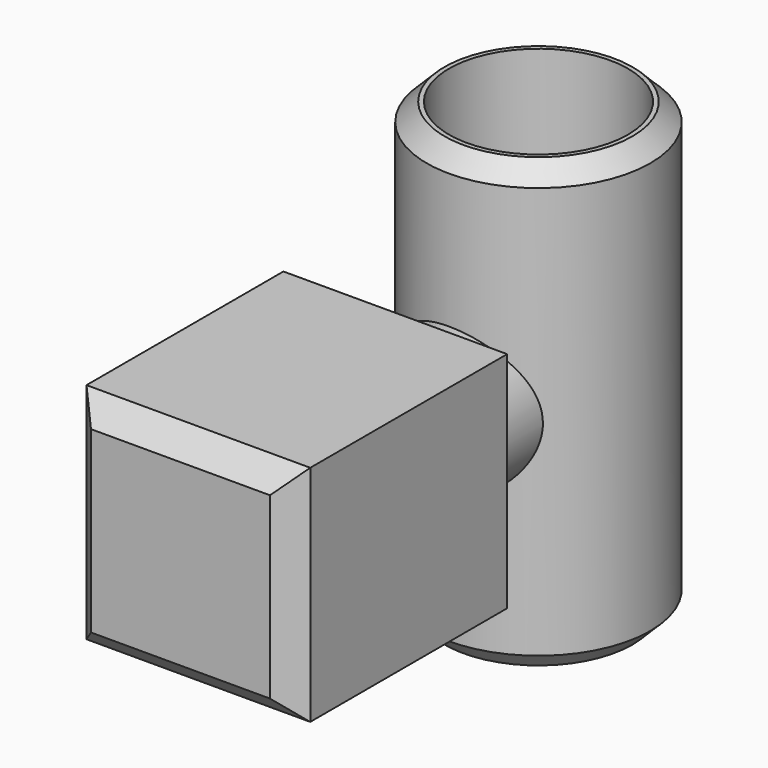
from build123d import *

# Parameters (mm, degrees)
F0_R     = 12.5
F1_DEPTH = 50
F2_SIZE  = 2
F3_R     = 8.107288
F4_DEPTH = 20
F5_W     = 25
F5_H     = 25
F6_DEPTH = 30
F7_SIZE  = 2.5
F8_R     = 10
F9_DEPTH = 50.001


with BuildPart() as f1:
    # F0 (on Top) → F1 (new body)
    with BuildSketch(Plane.XY):
        Circle(F0_R)
    extrude(amount=F1_DEPTH)

    # F2
    f2_edges = [f1.edges().sort_by_distance(p)[0] for p in [
        (-12.5, 0, 50),
        (-12.5, 0, 0),
    ]]
    chamfer(f2_edges, length=F2_SIZE)

    # F3 (on Front) → F4 (join)
    with BuildSketch(Plane.XZ):
        with Locations((0, 24.859188)):
            Circle(F3_R)
    extrude(amount=F4_DEPTH)

    # F5 (on face) → F6 (join)
    with BuildSketch(Plane.XZ.offset(20)):
        with Locations((0, 24.859188)):
            Rectangle(F5_W, F5_H)
    extrude(amount=F6_DEPTH)

    # F7
    f7_edges = [f1.edges().sort_by_distance(p)[0] for p in [
        (0, -50, 37.359188),
        (-12.5, -50, 24.859188),
        (0, -50, 12.359188),
        (12.5, -50, 24.859188),
    ]]
    chamfer(f7_edges, length=F7_SIZE)

    # F8 (on face) → F9 (cut, through all)
    with BuildSketch(Plane.XY.offset(50)):
        Circle(F8_R)
    extrude(amount=-F9_DEPTH, mode=Mode.SUBTRACT)


solid = f1.part
